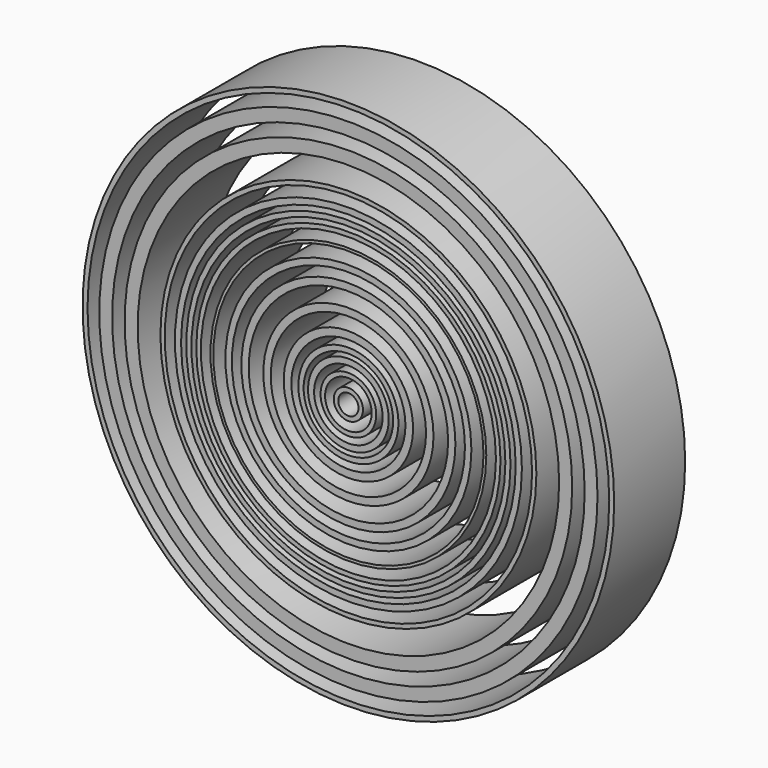
from build123d import *

# Parameters (mm, degrees)
F0_R     = 74.9103084047
F0_R_2   = 73.5176923739
F1_DEPTH = 25
F0_R_3   = 7.8455148605
F0_R_4   = 6.5693347283
F0_R_5   = 23.9838818871
F0_R_6   = 21.8837536555
F0_R_7   = 34.6648985317
F0_R_8   = 32.8495020624
F0_R_9   = 30.1630557968
F0_R_10  = 28.1094854588
F0_R_11  = 14.1127134637
F0_R_12  = 12.6107916845
F0_R_13  = 11.3743383839
F0_R_14  = 9.6567387311
F0_R_15  = 38.8635130467
F0_R_16  = 38.0771648771
F0_R_17  = 42.8650409326
F0_R_18  = 41.5853372222
F0_R_19  = 48.8940492545
F0_R_20  = 47.1564060025
F0_R_21  = 52.9759434176
F0_R_22  = 51.76927598
F0_R_23  = 63.0748790843
F0_R_24  = 59.3952445262
F0_R_25  = 70.207172613
F0_R_26  = 68.4190396701
F0_R_27  = 66.5957541372
F0_R_28  = 45.691446285
F0_R_29  = 44.2430765985
F0_R_30  = 18.2369338956
F0_R_31  = 16.0796764526
F0_R_32  = 4.1177498865
F0_R_33  = 2.8479717943


with BuildPart() as f1:
    # F0 (on Front) → F1 (new body)
    with BuildSketch(Plane.XZ):
        Circle(F0_R)
        Circle(F0_R_2, mode=Mode.SUBTRACT)
    extrude(amount=F1_DEPTH)


with BuildPart() as f1b:
    # F0 (on Front) → F1, piece 2 (new body)
    with BuildSketch(Plane.XZ):
        Circle(F0_R_3)
        Circle(F0_R_4, mode=Mode.SUBTRACT)
    extrude(amount=F1_DEPTH)


with BuildPart() as f1c:
    # F0 (on Front) → F1, piece 3 (new body)
    with BuildSketch(Plane.XZ):
        Circle(F0_R_5)
        Circle(F0_R_6, mode=Mode.SUBTRACT)
    extrude(amount=F1_DEPTH)


with BuildPart() as f1d:
    # F0 (on Front) → F1, piece 4 (new body)
    with BuildSketch(Plane.XZ):
        Circle(F0_R_7)
        Circle(F0_R_8, mode=Mode.SUBTRACT)
    extrude(amount=F1_DEPTH)


with BuildPart() as f1e:
    # F0 (on Front) → F1, piece 5 (new body)
    with BuildSketch(Plane.XZ):
        Circle(F0_R_9)
        Circle(F0_R_10, mode=Mode.SUBTRACT)
    extrude(amount=F1_DEPTH)


with BuildPart() as f1f:
    # F0 (on Front) → F1, piece 6 (new body)
    with BuildSketch(Plane.XZ):
        Circle(F0_R_11)
        Circle(F0_R_12, mode=Mode.SUBTRACT)
    extrude(amount=F1_DEPTH)


with BuildPart() as f1g:
    # F0 (on Front) → F1, piece 7 (new body)
    with BuildSketch(Plane.XZ):
        Circle(F0_R_13)
        Circle(F0_R_14, mode=Mode.SUBTRACT)
    extrude(amount=F1_DEPTH)


with BuildPart() as f1h:
    # F0 (on Front) → F1, piece 8 (new body)
    with BuildSketch(Plane.XZ):
        Circle(F0_R_15)
        Circle(F0_R_16, mode=Mode.SUBTRACT)
    extrude(amount=F1_DEPTH)


with BuildPart() as f1i:
    # F0 (on Front) → F1, piece 9 (new body)
    with BuildSketch(Plane.XZ):
        Circle(F0_R_17)
        Circle(F0_R_18, mode=Mode.SUBTRACT)
    extrude(amount=F1_DEPTH)


with BuildPart() as f1j:
    # F0 (on Front) → F1, piece 10 (new body)
    with BuildSketch(Plane.XZ):
        Circle(F0_R_19)
        Circle(F0_R_20, mode=Mode.SUBTRACT)
    extrude(amount=F1_DEPTH)


with BuildPart() as f1k:
    # F0 (on Front) → F1, piece 11 (new body)
    with BuildSketch(Plane.XZ):
        Circle(F0_R_21)
        Circle(F0_R_22, mode=Mode.SUBTRACT)
    extrude(amount=F1_DEPTH)


with BuildPart() as f1l:
    # F0 (on Front) → F1, piece 12 (new body)
    with BuildSketch(Plane.XZ):
        Circle(F0_R_23)
        Circle(F0_R_24, mode=Mode.SUBTRACT)
    extrude(amount=F1_DEPTH)


with BuildPart() as f1m:
    # F0 (on Front) → F1, piece 13 (new body)
    with BuildSketch(Plane.XZ):
        Circle(F0_R_25)
        Circle(F0_R_26, mode=Mode.SUBTRACT)
        Circle(F0_R_26)
        Circle(F0_R_27, mode=Mode.SUBTRACT)
    extrude(amount=F1_DEPTH)


with BuildPart() as f1n:
    # F0 (on Front) → F1, piece 14 (new body)
    with BuildSketch(Plane.XZ):
        Circle(F0_R_28)
        Circle(F0_R_29, mode=Mode.SUBTRACT)
    extrude(amount=F1_DEPTH)


with BuildPart() as f1o:
    # F0 (on Front) → F1, piece 15 (new body)
    with BuildSketch(Plane.XZ):
        Circle(F0_R_30)
        Circle(F0_R_31, mode=Mode.SUBTRACT)
    extrude(amount=F1_DEPTH)


with BuildPart() as f1p:
    # F0 (on Front) → F1, piece 16 (new body)
    with BuildSketch(Plane.XZ):
        Circle(F0_R_32)
        Circle(F0_R_33, mode=Mode.SUBTRACT)
    extrude(amount=F1_DEPTH)


solid = Compound([f1.part, f1b.part, f1c.part, f1d.part, f1e.part, f1f.part, f1g.part, f1h.part, f1i.part, f1j.part, f1k.part, f1l.part, f1m.part, f1n.part, f1o.part, f1p.part])
